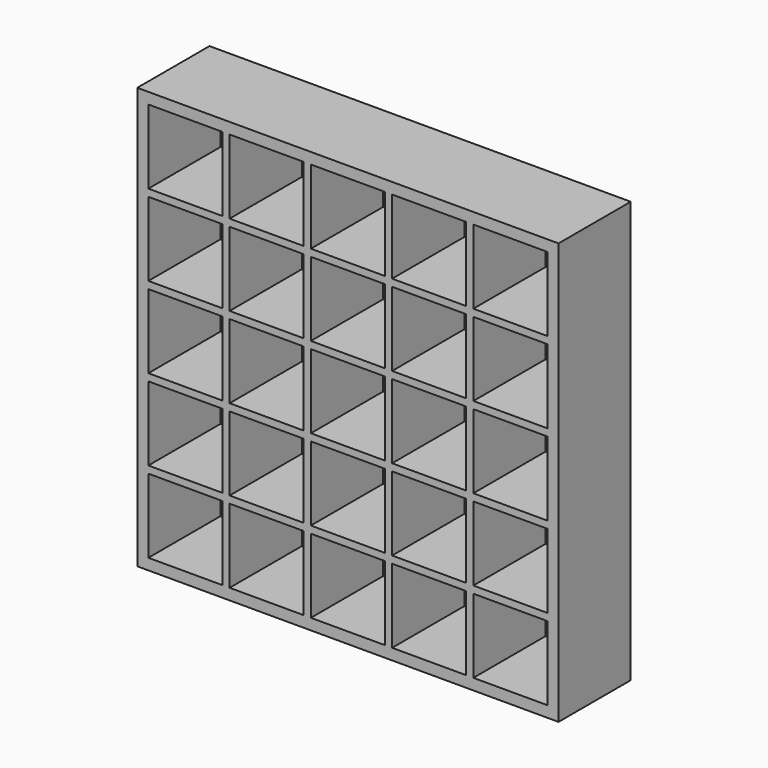
from build123d import *

# Parameters (mm, degrees)
F0_W     = 1820
F0_H     = 1820
F0_W_2   = 320
F0_H_2   = 320
F1_DEPTH = 195


with BuildPart() as f1:
    # F0 (on Front) → F1 (new body, symmetric)
    with BuildSketch(Plane.XZ):
        with Locations((910, 910)):
            Rectangle(F0_W, F0_H)
        with Locations((208, 208)):
            Rectangle(F0_W_2, F0_H_2, mode=Mode.SUBTRACT)
        with Locations((559, 208)):
            Rectangle(F0_W_2, F0_H_2, mode=Mode.SUBTRACT)
        with Locations((208, 559)):
            Rectangle(F0_W_2, F0_H_2, mode=Mode.SUBTRACT)
        with Locations((559, 559)):
            Rectangle(F0_W_2, F0_H_2, mode=Mode.SUBTRACT)
        with Locations((910, 208)):
            Rectangle(F0_W_2, F0_H_2, mode=Mode.SUBTRACT)
        with Locations((1261, 208)):
            Rectangle(F0_W_2, F0_H_2, mode=Mode.SUBTRACT)
        with Locations((1612, 208)):
            Rectangle(F0_W_2, F0_H_2, mode=Mode.SUBTRACT)
        with Locations((910, 559)):
            Rectangle(F0_W_2, F0_H_2, mode=Mode.SUBTRACT)
        with Locations((1261, 559)):
            Rectangle(F0_W_2, F0_H_2, mode=Mode.SUBTRACT)
        with Locations((1612, 559)):
            Rectangle(F0_W_2, F0_H_2, mode=Mode.SUBTRACT)
        with Locations((208, 910)):
            Rectangle(F0_W_2, F0_H_2, mode=Mode.SUBTRACT)
        with Locations((208, 1261)):
            Rectangle(F0_W_2, F0_H_2, mode=Mode.SUBTRACT)
        with Locations((559, 910)):
            Rectangle(F0_W_2, F0_H_2, mode=Mode.SUBTRACT)
        with Locations((559, 1261)):
            Rectangle(F0_W_2, F0_H_2, mode=Mode.SUBTRACT)
        with Locations((208, 1612)):
            Rectangle(F0_W_2, F0_H_2, mode=Mode.SUBTRACT)
        with Locations((559, 1612)):
            Rectangle(F0_W_2, F0_H_2, mode=Mode.SUBTRACT)
        with Locations((910, 910)):
            Rectangle(F0_W_2, F0_H_2, mode=Mode.SUBTRACT)
        with Locations((1261, 910)):
            Rectangle(F0_W_2, F0_H_2, mode=Mode.SUBTRACT)
        with Locations((910, 1261)):
            Rectangle(F0_W_2, F0_H_2, mode=Mode.SUBTRACT)
        with Locations((1261, 1261)):
            Rectangle(F0_W_2, F0_H_2, mode=Mode.SUBTRACT)
        with Locations((1612, 910)):
            Rectangle(F0_W_2, F0_H_2, mode=Mode.SUBTRACT)
        with Locations((1612, 1261)):
            Rectangle(F0_W_2, F0_H_2, mode=Mode.SUBTRACT)
        with Locations((910, 1612)):
            Rectangle(F0_W_2, F0_H_2, mode=Mode.SUBTRACT)
        with Locations((1261, 1612)):
            Rectangle(F0_W_2, F0_H_2, mode=Mode.SUBTRACT)
        with Locations((1612, 1612)):
            Rectangle(F0_W_2, F0_H_2, mode=Mode.SUBTRACT)
    extrude(amount=F1_DEPTH, both=True)


solid = f1.part
